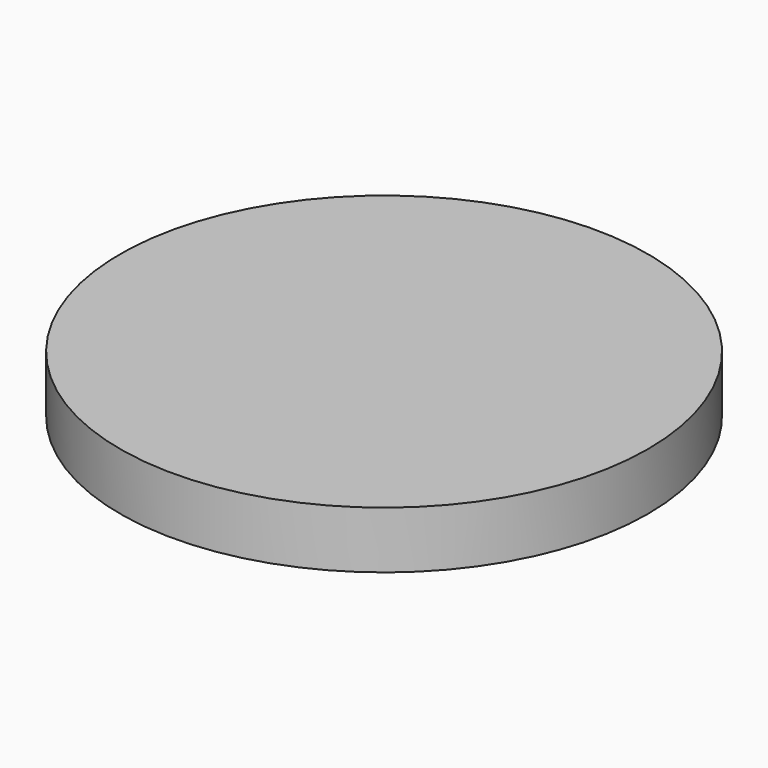
from build123d import *

# Parameters (mm, degrees)
SKETCH_R  = 46.284071
PAD_DEPTH = 10


with BuildPart() as part:
    # Sketch → Pad (new body)
    with BuildSketch(Plane.XY):
        Circle(SKETCH_R)
    extrude(amount=PAD_DEPTH)


solid = part.part
